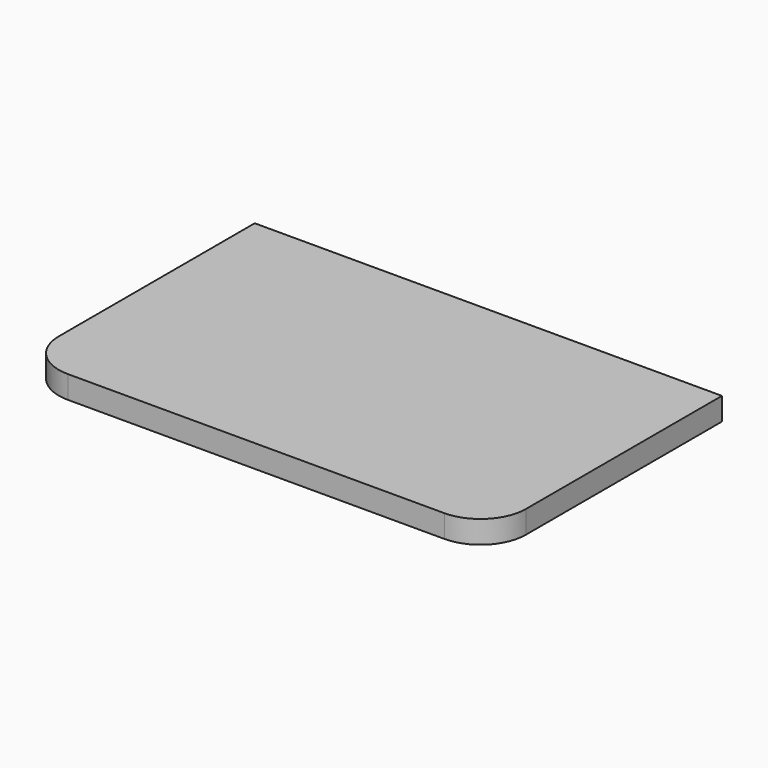
from build123d import *

# Parameters (mm, degrees)
F1_DEPTH = 2.5


with BuildPart() as f1:
    # F0 (on Top) → F1 (new body)
    with BuildSketch(Plane.XY):
        with BuildLine():
            ThreePointArc((-25.75, -11), (-24.285534, -14.535534), (-20.75, -16))
            Line((-20.75, -16), (20.75, -16))
            ThreePointArc((20.75, -16), (24.285534, -14.535534), (25.75, -11))
            Line((25.75, -11), (25.75, 16))
            Line((25.75, 16), (-25.75, 16))
            Line((-25.75, 16), (-25.75, -11))
        make_face()
    extrude(amount=F1_DEPTH)


solid = f1.part
